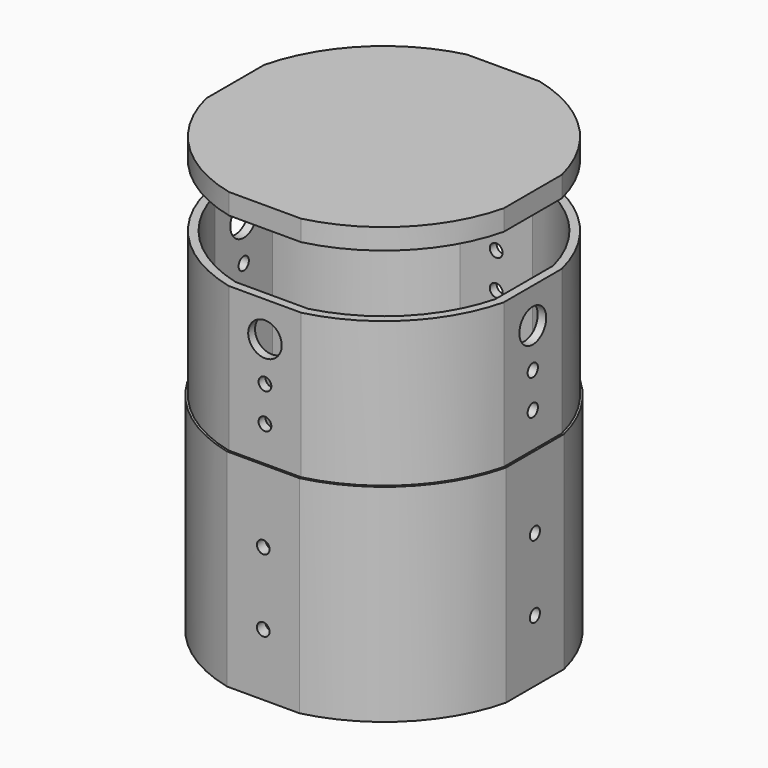
from build123d import *

# Parameters (mm, degrees)
F1_DEPTH  = 100
F3_DEPTH  = 70
F4_R      = 8.1
F4_R_2    = 3.1
F5_DEPTH  = 4.1237650092
F6_R      = 8.1
F6_R_2    = 3.1
F7_DEPTH  = 4.1237650092
F8_R      = 8.1
F8_R_2    = 3.1
F9_DEPTH  = 4.1237650092
F10_R     = 8.1
F10_R_2   = 3.1
F11_DEPTH = 4.1237650092
F12_R     = 3.05
F13_DEPTH = 5.1525521704
F14_R     = 3.05
F15_DEPTH = 5.1525521704
F16_R     = 3.05
F17_DEPTH = 5.1525521704
F18_R     = 3.05
F19_DEPTH = 5.1525521704
F20_START = 100
F20_DEPTH = 10


with BuildPart() as f1:
    # F0 (on Top) → F1 (new body)
    with BuildSketch(Plane.XY):
        with BuildLine():
            Line((17.5, 72.9297607291), (-17.5, 72.9297607291))
            ThreePointArc((-17.5, 72.9297607291), (-53.033008589, 53.033008589), (-72.9297607291, 17.5))
            Line((-72.9297607291, 17.5), (-72.9297607291, -17.5))
            ThreePointArc((-72.9297607291, -17.5), (-53.033008589, -53.033008589), (-17.5, -72.9297607291))
            Line((-17.5, -72.9297607291), (17.5, -72.9297607291))
            ThreePointArc((17.5, -72.9297607291), (53.033008589, -53.033008589), (72.9297607291, -17.5))
            Line((72.9297607291, -17.5), (72.9297607291, 17.5))
            ThreePointArc((72.9297607291, 17.5), (53.033008589, 53.033008589), (17.5, 72.9297607291))
        make_face()
        with BuildLine():
            ThreePointArc((-67.7772085586, 17.5), (-49.4974746831, 49.4974746831), (-17.5, 67.7772085586))
            Line((-17.5, 67.7772085586), (17.5, 67.7772085586))
            ThreePointArc((17.5, 67.7772085586), (49.4974746831, 49.4974746831), (67.7772085586, 17.5))
            Line((67.7772085586, 17.5), (67.7772085586, -17.5))
            ThreePointArc((67.7772085586, -17.5), (49.4974746831, -49.4974746831), (17.5, -67.7772085586))
            Line((17.5, -67.7772085586), (-17.5, -67.7772085586))
            ThreePointArc((-17.5, -67.7772085586), (-49.4974746831, -49.4974746831), (-67.7772085586, -17.5))
            Line((-67.7772085586, -17.5), (-67.7772085586, 17.5))
        make_face(mode=Mode.SUBTRACT)
    extrude(amount=F1_DEPTH)

    # F2 (on face) → F3 (join)
    with BuildSketch(Plane.XY.offset(100)):
        with BuildLine():
            Line((17.5, 71.9009735678), (-17.5, 71.9009735678))
            ThreePointArc((-17.5, 71.9009735678), (-52.3259018078, 52.3259018078), (-71.9009735678, 17.5))
            Line((-71.9009735678, 17.5), (-71.9009735678, -17.5))
            ThreePointArc((-71.9009735678, -17.5), (-52.3259018078, -52.3259018078), (-17.5, -71.9009735678))
            Line((-17.5, -71.9009735678), (17.5, -71.9009735678))
            ThreePointArc((17.5, -71.9009735678), (52.3259018078, -52.3259018078), (71.9009735678, -17.5))
            Line((71.9009735678, -17.5), (71.9009735678, 17.5))
            ThreePointArc((71.9009735678, 17.5), (52.3259018078, 52.3259018078), (17.5, 71.9009735678))
        make_face()
        with BuildLine():
            ThreePointArc((-67.7772085586, 17.5), (-49.4974746831, 49.4974746831), (-17.5, 67.7772085586))
            Line((-17.5, 67.7772085586), (17.5, 67.7772085586))
            ThreePointArc((17.5, 67.7772085586), (49.4974746831, 49.4974746831), (67.7772085586, 17.5))
            Line((67.7772085586, 17.5), (67.7772085586, -17.5))
            ThreePointArc((67.7772085586, -17.5), (49.4974746831, -49.4974746831), (17.5, -67.7772085586))
            Line((17.5, -67.7772085586), (-17.5, -67.7772085586))
            ThreePointArc((-17.5, -67.7772085586), (-49.4974746831, -49.4974746831), (-67.7772085586, -17.5))
            Line((-67.7772085586, -17.5), (-67.7772085586, 17.5))
        make_face(mode=Mode.SUBTRACT)
    extrude(amount=F3_DEPTH)

    # F4 (on face) → F5 (cut, through all)
    with BuildSketch(Plane.XZ.offset(71.9009735678)):
        with Locations((0, 153)):
            Circle(F4_R)
        with Locations((0, 134)):
            Circle(F4_R_2)
        with Locations((0, 117)):
            Circle(F4_R_2)
    extrude(amount=-F5_DEPTH, mode=Mode.SUBTRACT)

    # F6 (on face) → F7 (cut, through all)
    with BuildSketch(Plane.YZ.offset(71.9009735678)):
        with Locations((0, 153)):
            Circle(F6_R)
        with Locations((0, 134)):
            Circle(F6_R_2)
        with Locations((0, 117)):
            Circle(F6_R_2)
    extrude(amount=-F7_DEPTH, mode=Mode.SUBTRACT)

    # F8 (on face) → F9 (cut, through all)
    with BuildSketch(Plane(origin=(0, 71.9009735678, 0), x_dir=(-1, 0, 0), z_dir=(0, 1, 0))):
        with Locations((0, 153)):
            Circle(F8_R)
        with Locations((0, 134)):
            Circle(F8_R_2)
        with Locations((0, 117)):
            Circle(F8_R_2)
    extrude(amount=-F9_DEPTH, mode=Mode.SUBTRACT)

    # F10 (on face) → F11 (cut, through all)
    with BuildSketch(Plane(origin=(-71.9009735678, 0, 0), x_dir=(0, -1, 0), z_dir=(-1, 0, 0))):
        with Locations((0, 153)):
            Circle(F10_R)
        with Locations((0, 134)):
            Circle(F10_R_2)
        with Locations((0, 117)):
            Circle(F10_R_2)
    extrude(amount=-F11_DEPTH, mode=Mode.SUBTRACT)

    # F12 (on face) → F13 (cut, through all)
    with BuildSketch(Plane.YZ.offset(72.9297607291)):
        with Locations((0, 65)):
            Circle(F12_R)
        with Locations((0, 30)):
            Circle(F12_R)
    extrude(amount=-F13_DEPTH, mode=Mode.SUBTRACT)

    # F14 (on face) → F15 (cut, through all)
    with BuildSketch(Plane.XZ.offset(72.9297607291)):
        with Locations((0, 65)):
            Circle(F14_R)
        with Locations((0, 30)):
            Circle(F14_R)
    extrude(amount=-F15_DEPTH, mode=Mode.SUBTRACT)

    # F16 (on face) → F17 (cut, through all)
    with BuildSketch(Plane(origin=(0, 72.9297607291, 0), x_dir=(-1, 0, 0), z_dir=(0, 1, 0))):
        with Locations((0, 65)):
            Circle(F16_R)
        with Locations((0, 30)):
            Circle(F16_R)
    extrude(amount=-F17_DEPTH, mode=Mode.SUBTRACT)

    # F18 (on face) → F19 (cut, through all)
    with BuildSketch(Plane(origin=(-72.9297607291, 0, 0), x_dir=(0, -1, 0), z_dir=(-1, 0, 0))):
        with Locations((0, 65)):
            Circle(F18_R)
        with Locations((0, 30)):
            Circle(F18_R)
    extrude(amount=-F19_DEPTH, mode=Mode.SUBTRACT)


with BuildPart() as f20:
    # F2 (on face) → F20 (new body)
    with BuildSketch(Plane.XY.offset(100).offset(F20_START)):
        with BuildLine():
            Line((17.5, 71.9009735678), (-17.5, 71.9009735678))
            ThreePointArc((-17.5, 71.9009735678), (-52.3259018078, 52.3259018078), (-71.9009735678, 17.5))
            Line((-71.9009735678, 17.5), (-71.9009735678, -17.5))
            ThreePointArc((-71.9009735678, -17.5), (-52.3259018078, -52.3259018078), (-17.5, -71.9009735678))
            Line((-17.5, -71.9009735678), (17.5, -71.9009735678))
            ThreePointArc((17.5, -71.9009735678), (52.3259018078, -52.3259018078), (71.9009735678, -17.5))
            Line((71.9009735678, -17.5), (71.9009735678, 17.5))
            ThreePointArc((71.9009735678, 17.5), (52.3259018078, 52.3259018078), (17.5, 71.9009735678))
        make_face()
        with BuildLine():
            ThreePointArc((-67.7772085586, 17.5), (-49.4974746831, 49.4974746831), (-17.5, 67.7772085586))
            Line((-17.5, 67.7772085586), (17.5, 67.7772085586))
            ThreePointArc((17.5, 67.7772085586), (49.4974746831, 49.4974746831), (67.7772085586, 17.5))
            Line((67.7772085586, 17.5), (67.7772085586, -17.5))
            ThreePointArc((67.7772085586, -17.5), (49.4974746831, -49.4974746831), (17.5, -67.7772085586))
            Line((17.5, -67.7772085586), (-17.5, -67.7772085586))
            ThreePointArc((-17.5, -67.7772085586), (-49.4974746831, -49.4974746831), (-67.7772085586, -17.5))
            Line((-67.7772085586, -17.5), (-67.7772085586, 17.5))
        make_face(mode=Mode.SUBTRACT)
        with BuildLine():
            Line((17.5, 67.7772085586), (-17.5, 67.7772085586))
            ThreePointArc((-17.5, 67.7772085586), (-49.4974746831, 49.4974746831), (-67.7772085586, 17.5))
            Line((-67.7772085586, 17.5), (-67.7772085586, -17.5))
            ThreePointArc((-67.7772085586, -17.5), (-49.4974746831, -49.4974746831), (-17.5, -67.7772085586))
            Line((-17.5, -67.7772085586), (17.5, -67.7772085586))
            ThreePointArc((17.5, -67.7772085586), (49.4974746831, -49.4974746831), (67.7772085586, -17.5))
            Line((67.7772085586, -17.5), (67.7772085586, 17.5))
            ThreePointArc((67.7772085586, 17.5), (49.4974746831, 49.4974746831), (17.5, 67.7772085586))
        make_face()
    extrude(amount=F20_DEPTH)


solid = Compound([f1.part, f20.part])
